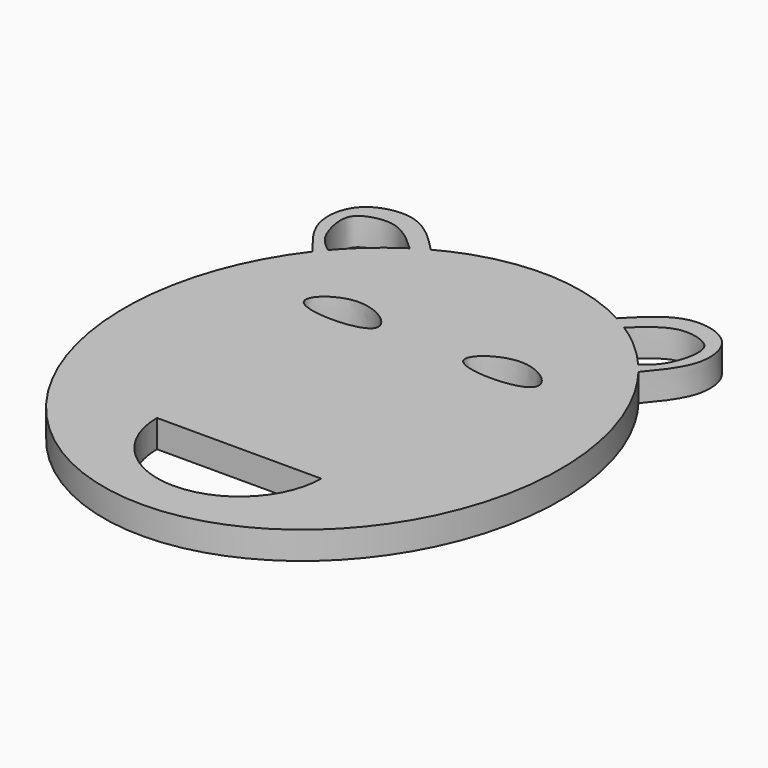
from build123d import *

# Parameters (mm, degrees)
F1_DEPTH = 4.191


with BuildPart() as f1:
    # F0 (on Top) → F1 (new body)
    with BuildSketch(Plane.XY):
        with BuildLine():
            add(Edge.make_bspline(
                [(24.7524249134, 25.3334466113), (26.4921043894, 27.4038775168), (29.7499366506, 31.3036401391), (28.5268792734, 38.7079062159), (20.2321867148, 40.7627531415), (16.2366253116, 36.6517388844), (14.1229792154, 34.4669599827)],
                knots=[0, 0, 0, 0, 0.2574943963, 0.4871185887, 0.7294191321, 1, 1, 1, 1], degree=3))
            add(Edge.make_bspline(
                [(14.1229792154, 34.4669599827), (0, 42.1159858813), (-14.1229792154, 34.4669599827)],
                knots=[2.7013414073, 2.7013414073, 2.7013414073, 3.5818438999, 3.5818438999, 3.5818438999], degree=2, weights=[1, 0.904644619, 1]))
            add(Edge.make_bspline(
                [(-24.7524249134, 25.3334466113), (-26.4921043894, 27.4038775168), (-29.7499366506, 31.3036401391), (-28.5268792734, 38.7079062159), (-20.2321867148, 40.7627531415), (-16.2366253116, 36.6517388844), (-14.1229792154, 34.4669599827)],
                knots=[0, 0, 0, 0, 0.2574943963, 0.4871185887, 0.7294191321, 1, 1, 1, 1], degree=3))
            add(Edge.make_bspline(
                [(-24.7524249134, 25.3334466113), (-73.8701637386, -38.1), (0, -38.1), (73.8701637386, -38.1), (24.7524249134, 25.3334466113)],
                knots=[3.9850024641, 3.9850024641, 3.9850024641, 6.2831853072, 6.2831853072, 8.5813681502, 8.5813681502, 8.5813681502], degree=2, weights=[1, 0.4093165898, 1, 0.4093165898, 1]))
        make_face()
        with BuildLine():
            Line((-12.4911808295, -19.6005292237), (12.4911808295, -19.6005292237))
            ThreePointArc((12.4911808295, -19.6005292237), (0, -32.0025625497), (-12.4911808295, -19.6005292237))
        make_face(mode=Mode.SUBTRACT)
        with BuildLine():
            add(Edge.make_bspline(
                [(-6.7753228359, 14.4998002797), (-5.748006456, 15.9772410963), (-12.4076795927, 21.2435617404), (-22.4192411611, 12.6827639699), (-8.0504552885, 12.6659613876), (-6.7753228359, 14.4998002797)],
                knots=[0, 0, 0, 0, 0.3114512053, 0.6134184687, 1, 1, 1, 1], degree=3))
        make_face(mode=Mode.SUBTRACT)
        with BuildLine():
            add(Edge.make_bspline(
                [(-16.2921525647, 33.1778016408), (-17.0254831405, 33.8710498602), (-18.5494827802, 35.296067522), (-21.7994417099, 37.3107249274), (-25.6757602989, 36.542224478), (-27.7552751613, 34.6335593966), (-26.4023029458, 28.9609055357), (-24.4681237299, 27.4504626506), (-23.5857732687, 26.7642167959)],
                knots=[0, 0, 0, 0, 0.1554415837, 0.3252139817, 0.494390103, 0.6311923242, 0.8333439617, 1, 1, 1, 1], degree=3))
            add(Edge.make_bspline(
                [(-16.2921525647, 33.1778016408), (-20.328712575, 30.5578169916), (-23.5850671761, 26.7650392289)],
                knots=[3.6555446104, 3.6555446104, 3.6555446104, 3.9334925227, 3.9334925227, 3.9334925227], degree=2, weights=[1, 0.9903586523, 1]))
            Line((-23.5850671761, 26.7650392289), (-23.5857732687, 26.7642167959))
        make_face(mode=Mode.SUBTRACT)
        with BuildLine():
            add(Edge.make_bspline(
                [(6.7753228359, 14.4998002797), (5.748006456, 15.9772410963), (12.4076795927, 21.2435617404), (22.4192411611, 12.6827639699), (8.0504552885, 12.6659613876), (6.7753228359, 14.4998002797)],
                knots=[0, 0, 0, 0, 0.3114512053, 0.6134184687, 1, 1, 1, 1], degree=3))
        make_face(mode=Mode.SUBTRACT)
        with BuildLine():
            add(Edge.make_bspline(
                [(23.5857732687, 26.7642167959), (20.3291587796, 30.5575273764), (16.2921525647, 33.1778016408)],
                knots=[2.349662454, 2.349662454, 2.349662454, 2.6276406967, 2.6276406967, 2.6276406967], degree=2, weights=[1, 0.9903565514, 1]))
            add(Edge.make_bspline(
                [(16.2921525647, 33.1778016408), (17.0254831405, 33.8710498602), (18.5494827802, 35.296067522), (21.7994417099, 37.3107249274), (25.6757602989, 36.542224478), (27.7552751613, 34.6335593966), (26.4023029458, 28.9609055357), (24.4681237299, 27.4504626506), (23.5857732687, 26.7642167959)],
                knots=[0, 0, 0, 0, 0.1554415837, 0.3252139817, 0.494390103, 0.6311923242, 0.8333439617, 1, 1, 1, 1], degree=3))
        make_face(mode=Mode.SUBTRACT)
    extrude(amount=F1_DEPTH)


solid = f1.part
